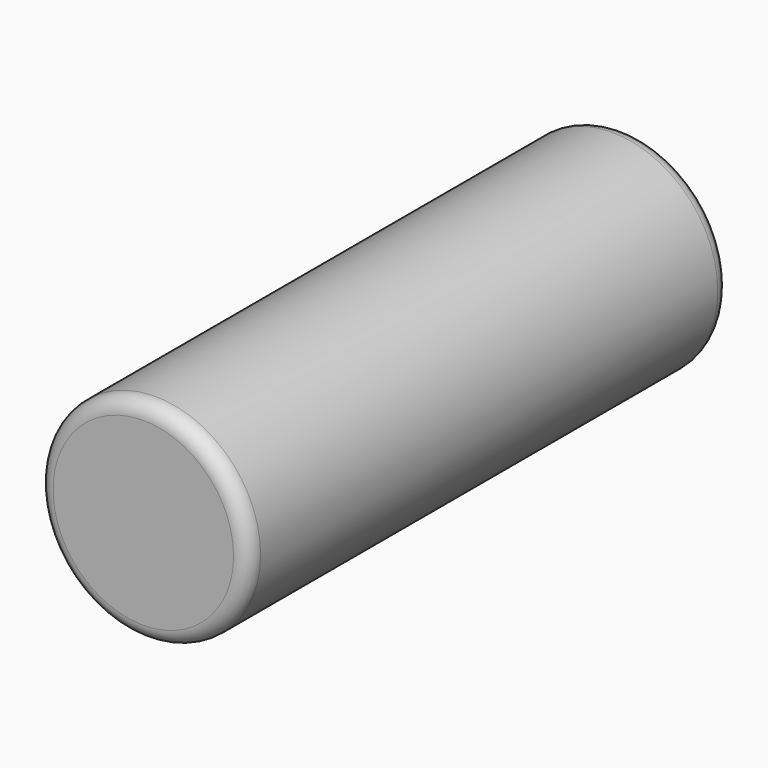
from build123d import *

# Parameters (mm, degrees)
F0_R          = 35
F1_DEPTH      = 100
F1_DEPTH_BACK = 100
F2_R          = 5


with BuildPart() as f1:
    # F0 (on Front) → F1 (new body, two sides)
    with BuildSketch(Plane.XZ) as f1_sk:
        Circle(F0_R)
    extrude(amount=F1_DEPTH)
    extrude(f1_sk.sketch, amount=-F1_DEPTH_BACK)

    # F2
    f2_edges = [f1.edges().sort_by_distance(p)[0] for p in [
        (-35, -100, 0),
        (-35, 100, 0),
    ]]
    fillet(f2_edges, radius=F2_R)


solid = f1.part
